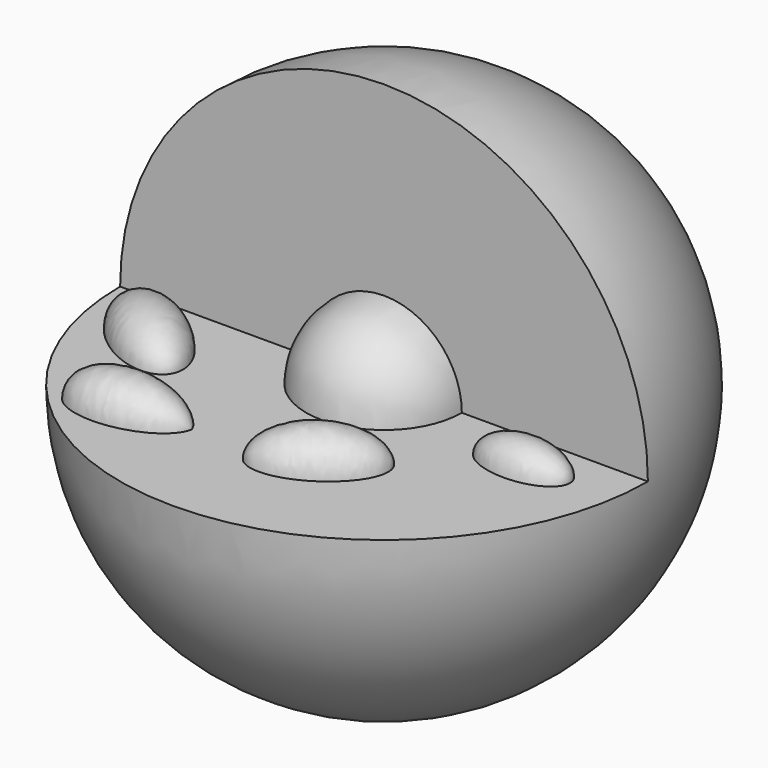
from build123d import *

# Parameters (mm, degrees)
F1_ANGLE = 270
F3_ANGLE = 90
F5_ANGLE = 180
F6_ANGLE = 180
F7_ANGLE = 180
F8_ANGLE = 180


with BuildPart() as f1:
    # F0 (on Front) → F1 (revolve)
    with BuildSketch(Plane.XZ):
        with BuildLine():
            Line((-76.3971819477, 0), (76.3971819477, 0))
            ThreePointArc((76.3971819477, 0), (0, 76.3971819477), (-76.3971819477, 0))
        make_face()
    revolve(axis=Axis((0, 0, 0), (-1, 0, 0)), revolution_arc=F1_ANGLE)


with BuildPart() as f3:
    # F2 (on face) → F3 (revolve)
    with BuildSketch(Plane.XZ):
        with BuildLine():
            Line((-22.5348739836, 0), (22.5348739836, 0))
            ThreePointArc((22.5348739836, 0), (0, 22.5348739836), (-22.5348739836, 0))
        make_face()
    revolve(axis=Axis((0, 0, 0), (1, 0, 0)), revolution_arc=F3_ANGLE)


with BuildPart() as f5:
    # F4 (on face) → F5 (revolve)
    with BuildSketch(Plane.XY):
        with BuildLine():
            Line((-69.0458789468, -5.6528784335), (-41.0506650805, -26.6492851079))
            add(Edge.make_bspline(
                [(-41.0506650805, -26.6492851079), (-35.2778521439, -18.9521998266), (-49.275459077, -8.4539964894), (-63.2730660101, 2.0442068477), (-69.0458789468, -5.6528784335)],
                knots=[0, 0, 0, 1.5707963268, 1.5707963268, 3.1415926536, 3.1415926536, 3.1415926536], degree=2, weights=[1, 0.7071067812, 1, 0.7071067812, 1]))
        make_face()
    revolve(axis=Axis((-55.0482720137, -16.1510817707, 0), (0.8000000511, -0.5999999319, 0)), revolution_arc=F5_ANGLE)


with BuildPart() as f6:
    # F4 (on face) → F6 (revolve)
    with BuildSketch(Plane.XY):
        with BuildLine():
            Line((-20.0542602688, -44.5691755388), (-53.4331630915, -46.9536224034))
            add(Edge.make_bspline(
                [(-53.4331630915, -46.9536224034), (-55.03384642, -56.3739927701), (-38.3443950087, -55.1817693378), (-21.6549435973, -53.9895459055), (-20.0542602688, -44.5691755388)],
                knots=[2.9503578275, 2.9503578275, 2.9503578275, 4.5211541543, 4.5211541543, 6.0919504811, 6.0919504811, 6.0919504811], degree=2, weights=[1, 0.7071067812, 1, 0.7071067812, 1]))
        make_face()
    revolve(axis=Axis((-36.7437116802, -45.7613989711, 0), (-0.9974581911, -0.0712541712, 0)), revolution_arc=F6_ANGLE)


with BuildPart() as f7:
    # F4 (on face) → F7 (revolve)
    with BuildSketch(Plane.XY):
        with BuildLine():
            Line((26.7838705331, -29.8795029521), (-2.2880677134, -48.1840595603))
            add(Edge.make_bspline(
                [(-2.2880677134, -48.1840595603), (2.7733286279, -56.2227465946), (17.3092977511, -47.0704682905), (31.8452668744, -37.9181899864), (26.7838705331, -29.8795029521)],
                knots=[0, 0, 0, 1.5707963268, 1.5707963268, 3.1415926536, 3.1415926536, 3.1415926536], degree=2, weights=[1, 0.7071067812, 1, 0.7071067812, 1]))
        make_face()
    revolve(axis=Axis((12.2479014099, -39.0317812562, 0), (-0.8462328021, -0.5328133301, 0)), revolution_arc=F7_ANGLE)


with BuildPart() as f8:
    # F4 (on face) → F8 (revolve)
    with BuildSketch(Plane.XY):
        with BuildLine():
            Line((36.2053401768, -11.5749426186), (63.1238110363, -11.5749426186))
            add(Edge.make_bspline(
                [(63.1238110363, -11.5749426186), (63.1238110363, -4.2835854489), (49.6645756066, -4.2835854489), (36.2053401768, -4.2835854489), (36.2053401768, -11.5749426186)],
                knots=[3.1415926536, 3.1415926536, 3.1415926536, 4.7123889804, 4.7123889804, 6.2831853072, 6.2831853072, 6.2831853072], degree=2, weights=[1, 0.7071067812, 1, 0.7071067812, 1]))
        make_face()
    revolve(axis=Axis((49.6645756066, -11.5749426186, 0), (1, 0, 0)), revolution_arc=F8_ANGLE)


solid = Compound([f1.part, f3.part, f5.part, f6.part, f7.part, f8.part])
